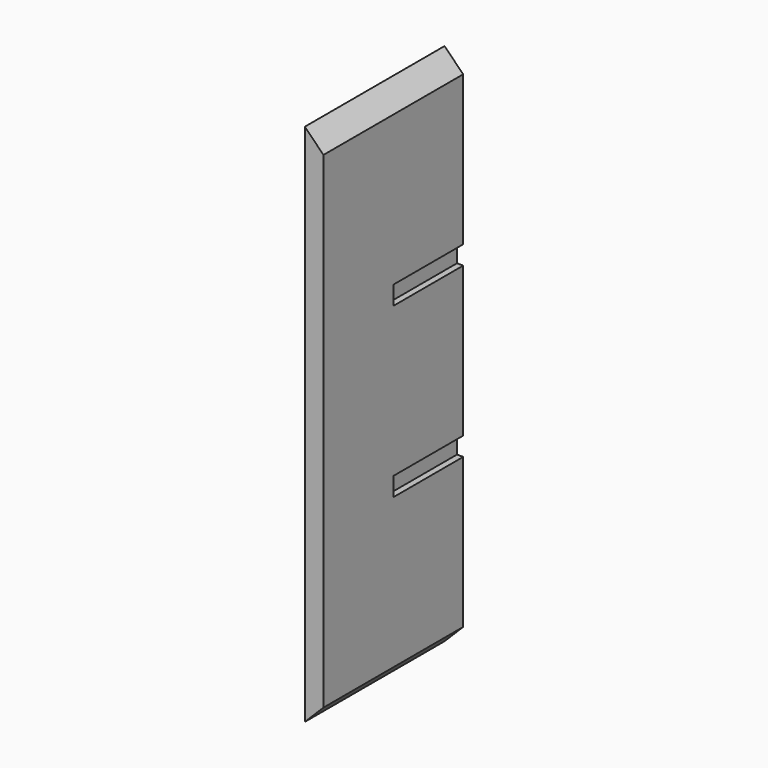
from build123d import *

# Parameters (mm, degrees)
F1_DEPTH = 88.9
F2_W     = 88.9
F2_H     = 19.05
F3_DEPTH = 6.35


with BuildPart() as f1:
    # F0 (on Front) → F1 (new body, symmetric)
    with BuildSketch(Plane.XZ):
        Polygon((0, 533.4), (0, 0), (19.05, 19.05), (19.05, 514.35), align=None)
    extrude(amount=F1_DEPTH, both=True)

    # F2 (on face) → F3 (cut)
    with BuildSketch(Plane.YZ.offset(19.05)):
        with Locations((44.45, 180.975)):
            Rectangle(F2_W, F2_H)
        with Locations((44.45, 352.425)):
            Rectangle(F2_W, F2_H)
    extrude(amount=-F3_DEPTH, mode=Mode.SUBTRACT)


solid = f1.part
